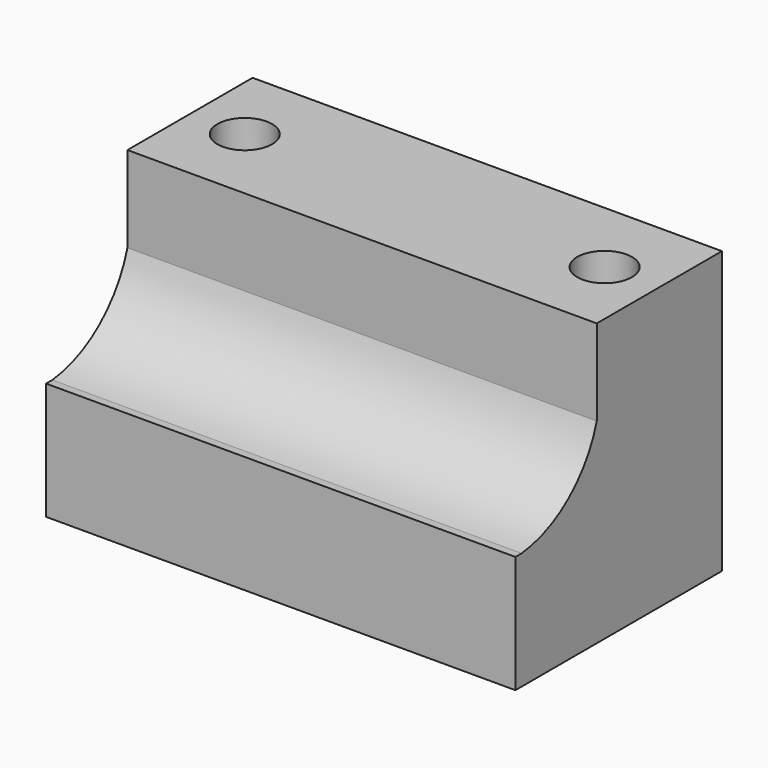
from build123d import *

# Parameters (mm, degrees)
SKETCH_W     = 60
SKETCH_H     = 36
PAD_DEPTH    = 20
SKETCH001_R  = 3.5
POCKET_DEPTH = 36.001
SKETCH004_W  = 60
SKETCH004_H  = 15
PAD003_DEPTH = 13
PAD004_DEPTH = 60


with BuildPart() as part:
    # Sketch → Pad (new body)
    with BuildSketch(Plane.XZ):
        with Locations((0, 18)):
            Rectangle(SKETCH_W, SKETCH_H)
    extrude(amount=PAD_DEPTH)

    # Sketch001 (on Face3 of Pad) → Pocket (cut, through all)
    with BuildSketch(Plane(origin=(0, 0, 36), x_dir=(-1, 0, 0), z_dir=(0, 0, 1))):
        with Locations((-23, 10)):
            Circle(SKETCH001_R)
        with Locations((23, 10)):
            Circle(SKETCH001_R)
    extrude(amount=-POCKET_DEPTH, mode=Mode.SUBTRACT)

    # Sketch004 → Pad003 (join)
    with BuildSketch(Plane.XZ.offset(20)):
        with Locations((0, 7.5)):
            Rectangle(SKETCH004_W, SKETCH004_H)
    extrude(amount=PAD003_DEPTH)

    # Sketch005 (on Face2 of Pad003) → Pad004 (join)
    with BuildSketch(Plane(origin=(-30, 0, 0), x_dir=(0, 0, -1), z_dir=(-1, 0, 0))):
        with BuildLine():
            Line((-25, 20), (-15, 20))
            Line((-15, 20), (-15, 32))
            ThreePointArc((-25, 20), (-18.170827, 24.475689), (-15, 32))
        make_face()
    extrude(amount=-PAD004_DEPTH)


solid = part.part
